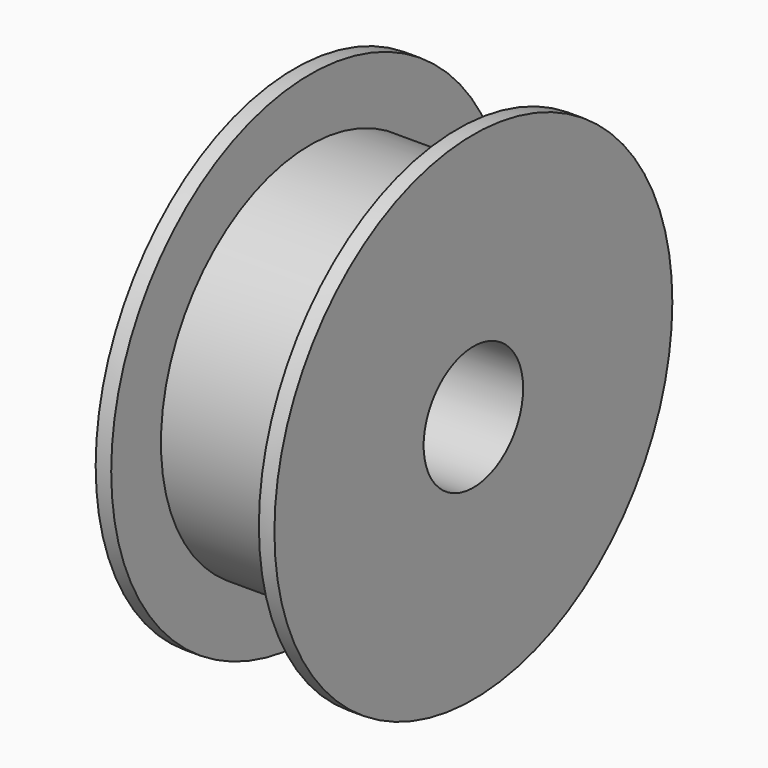
from build123d import *

# Parameters (mm, degrees)
F0_R     = 101.6
F1_DEPTH = 6.35
F2_R     = 76.2
F3_DEPTH = 60.325
F4_R     = 101.6
F5_DEPTH = 6.35
F6_R     = 25.4
F7_DEPTH = 73.026


with BuildPart() as f1:
    # F0 (on Right) → F1 (new body)
    with BuildSketch(Plane.YZ):
        Circle(F0_R)
    extrude(amount=F1_DEPTH)

    # F2 (on face) → F3 (join)
    with BuildSketch(Plane.YZ.offset(6.35)):
        Circle(F2_R)
    extrude(amount=F3_DEPTH)

    # F4 (on face) → F5 (join)
    with BuildSketch(Plane.YZ.offset(66.675)):
        Circle(F4_R)
    extrude(amount=F5_DEPTH)

    # F6 (on face) → F7 (cut, through all)
    with BuildSketch(Plane.YZ.offset(73.025)):
        Circle(F6_R)
    extrude(amount=-F7_DEPTH, mode=Mode.SUBTRACT)


solid = f1.part
